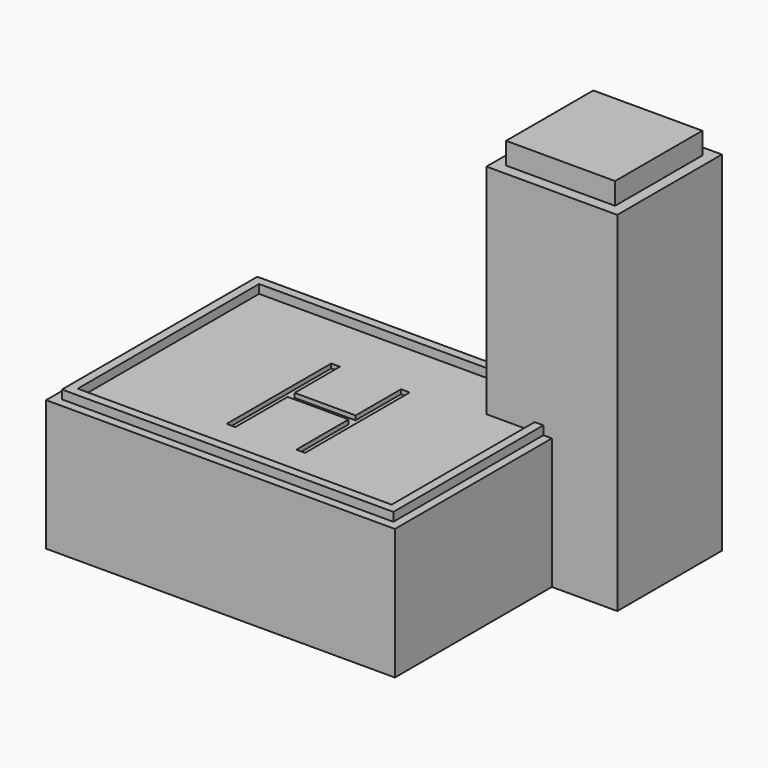
from build123d import *

# Parameters (mm, degrees)
F0_W      = 19.05
F0_H      = 19.05
F1_DEPTH  = 38.1
F2_DEPTH  = 101.6
F3_W      = 31.75
F3_H      = 31.75
F4_DEPTH  = 6.35
F5_W      = 17.78
F5_H      = 2.54
F6_DEPTH  = 1.27
F7_W      = 77.4077631491
F7_H      = 2.54
F7_W_2    = 2.54
F7_H_2    = 52.07
F8_DEPTH  = 2.54
F9_W      = 17.78
F9_H      = 2.54
F10_DEPTH = 1.27


with BuildPart() as f1:
    # F0 (on Top) → F1 (new body)
    with BuildSketch(Plane.XY):
        Polygon((31.75, 38.1), (-50.8, 38.1), (-50.8, -38.1), (50.8, -38.1), (50.8, 19.05), (31.75, 19.05), align=None)
        with Locations((41.275, 28.575)):
            Rectangle(F0_W, F0_H)
    extrude(amount=F1_DEPTH)

    # F0 (on Top) → F2 (join)
    with BuildSketch(Plane.XY):
        Polygon((31.75, 57.15), (31.75, 38.1), (50.8, 38.1), (50.8, 19.05), (69.85, 19.05), (69.85, 57.15), align=None)
        with Locations((41.275, 28.575)):
            Rectangle(F0_W, F0_H)
    extrude(amount=F2_DEPTH)

    # F3 (on face) → F4 (join)
    with BuildSketch(Plane.XY.offset(101.6)):
        with Locations((50.8, 38.1)):
            Rectangle(F3_W, F3_H)
    extrude(amount=F4_DEPTH)

    # F5 (on face) → F6 (cut)
    with BuildSketch(Plane.XY.offset(38.1)):
        with Locations((0, -1.27)):
            Rectangle(F5_W, F5_H)
        Polygon((-8.89, 16.51), (-11.43, 16.51), (-11.43, -21.59), (-8.89, -21.59), (-8.89, -2.54), (-8.89, 0), align=None)
        Polygon((11.43, -21.59), (11.43, 16.51), (8.89, 16.51), (8.89, 0), (8.89, -2.54), (8.89, -21.59), align=None)
    extrude(amount=-F6_DEPTH, mode=Mode.SUBTRACT)

    # F7 (on face) → F8 (join)
    with BuildSketch(Plane.XY.offset(38.1)):
        with Locations((-6.9538815746, 34.29)):
            Rectangle(F7_W, F7_H)
        Polygon((-45.6577631491, 35.56), (-48.1977631491, 35.56), (-48.1977631491, -35.56), (-45.6577631491, -35.56), (-45.6577631491, -33.02), (-45.6577631491, 33.02), align=None)
        Polygon((-45.6577631491, -33.02), (-45.6577631491, -35.56), (48.3222368509, -35.56), (48.3222368509, -33.02), (45.7822368509, -33.02), align=None)
        with Locations((47.0522368509, -6.985)):
            Rectangle(F7_W_2, F7_H_2)
    extrude(amount=F8_DEPTH)

    # F9 (on face) → F10 (cut)
    with BuildSketch(Plane(origin=(31.75, 0, 0), x_dir=(0, -1, 0), z_dir=(-1, 0, 0))):
        Polygon((-46.99, 90.7755655977), (-49.53, 90.7755655977), (-49.53, 52.6755655977), (-46.99, 52.6755655977), (-46.99, 71.7255655977), (-46.99, 74.2655655977), align=None)
        with Locations((-38.1, 72.9955655977)):
            Rectangle(F9_W, F9_H)
        Polygon((-29.21, 90.7755655977), (-29.21, 74.2655655977), (-29.21, 71.7255655977), (-29.21, 52.6755655977), (-26.67, 52.6755655977), (-26.67, 90.7755655977), align=None)
    extrude(amount=-F10_DEPTH, mode=Mode.SUBTRACT)


solid = f1.part
